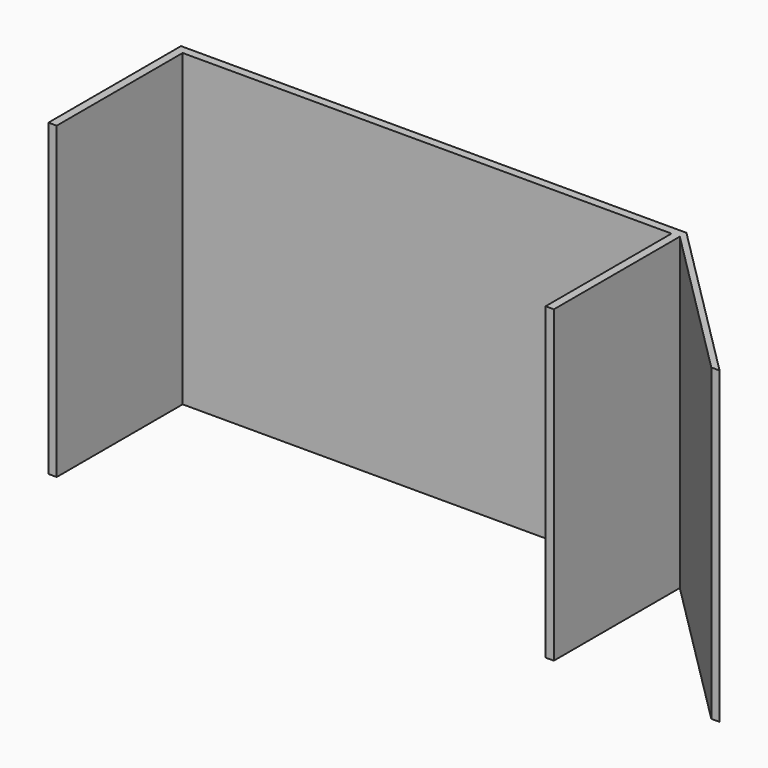
from build123d import *

# Parameters (mm, degrees)
F0_W     = 19.05
F0_H     = 361.95
F1_DEPTH = 711.2


with BuildPart() as f1:
    # F0 (on Top) → F1 (new body)
    with BuildSketch(Plane.XY):
        Polygon((0, 381), (-19.05, 381), (-19.05, 0), (0, 0), (0, 361.95), align=None)
        Polygon((1143, 381), (0, 381), (0, 361.95), (1123.95, 361.95), (1143, 361.95), align=None)
        with Locations((1133.475, 180.975)):
            Rectangle(F0_W, F0_H)
        Polygon((1524, 0), (1143, 381), (1143, 361.95), (1504.95, 0), align=None)
    extrude(amount=F1_DEPTH)


solid = f1.part
